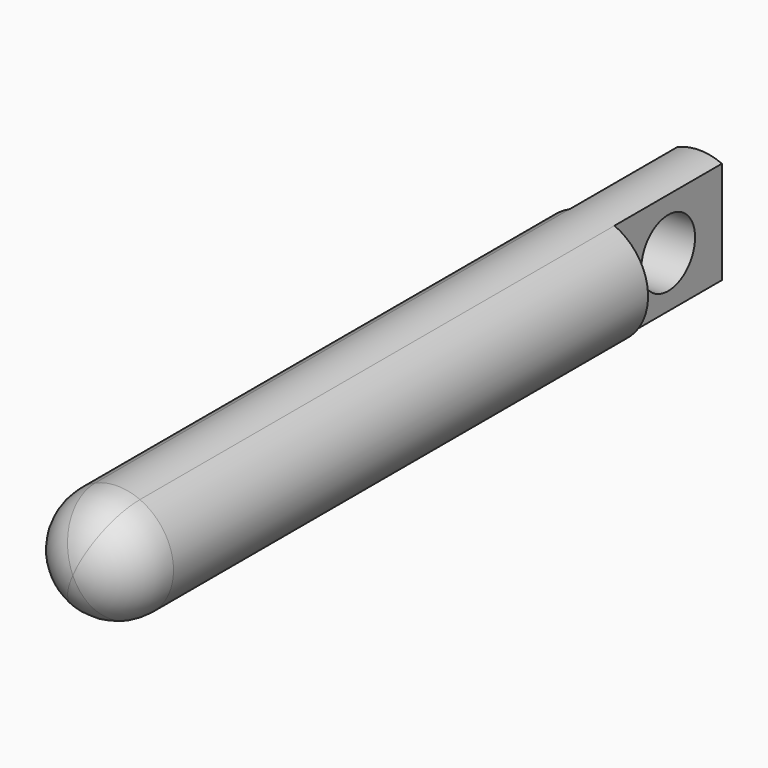
from build123d import *

# Parameters (mm, degrees)
F1_DEPTH = 70
F2_DEPTH = 12
F3_R     = 3
F4_DEPTH = 25
F5_R     = 5


with BuildPart() as f1:
    # F0 (on Front) → F1 (new body)
    with BuildSketch(Plane.XZ):
        with BuildLine():
            ThreePointArc((2, -4.582575695), (4.1833001327, -2.7386127875), (5, 0))
            ThreePointArc((5, 0), (4.1833001327, 2.7386127875), (2, 4.582575695))
            Line((2, 4.582575695), (2, -4.582575695))
        make_face()
        with BuildLine():
            Line((2, -4.582575695), (2, 4.582575695))
            ThreePointArc((2, 4.582575695), (0, 5), (-2, 4.582575695))
            Line((-2, 4.582575695), (-2, -4.582575695))
            ThreePointArc((-2, -4.582575695), (0, -5), (2, -4.582575695))
        make_face()
        with BuildLine():
            Line((-2, -4.582575695), (-2, 4.582575695))
            ThreePointArc((-2, 4.582575695), (-5, 0), (-2, -4.582575695))
        make_face()
    extrude(amount=F1_DEPTH)

    # F0 (on Front) → F2 (cut)
    with BuildSketch(Plane.XZ):
        with BuildLine():
            Line((-2, -4.582575695), (-2, 4.582575695))
            ThreePointArc((-2, 4.582575695), (-5, 0), (-2, -4.582575695))
        make_face()
        with BuildLine():
            ThreePointArc((2, -4.582575695), (4.1833001327, -2.7386127875), (5, 0))
            ThreePointArc((5, 0), (4.1833001327, 2.7386127875), (2, 4.582575695))
            Line((2, 4.582575695), (2, -4.582575695))
        make_face()
    extrude(amount=F2_DEPTH, mode=Mode.SUBTRACT)

    # F3 (on face) → F4 (cut)
    with BuildSketch(Plane.YZ.offset(2)):
        with Locations((-6, 0)):
            Circle(F3_R)
    extrude(amount=-F4_DEPTH, mode=Mode.SUBTRACT)

    # F5
    f5_edges = [f1.edges().sort_by_distance(p)[0] for p in [
        (2, -70, -4.582576),
    ]]
    fillet(f5_edges, radius=F5_R)


solid = f1.part
